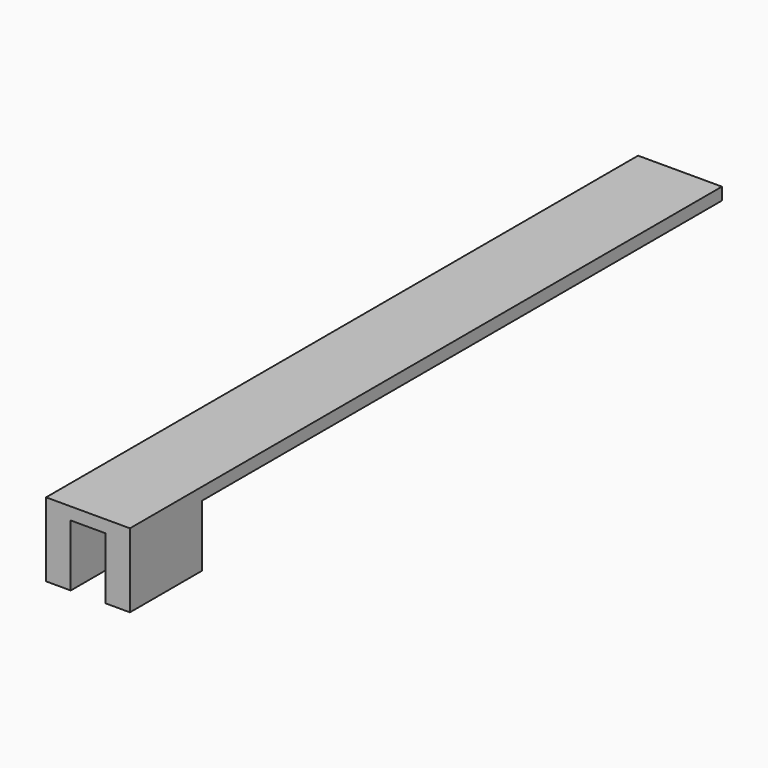
from build123d import *

# Parameters (mm, degrees)
F0_W     = 2
F0_H     = 7.3
F1_DEPTH = 5
F2_W     = 6.8
F2_H     = 60
F3_DEPTH = 1


with BuildPart() as f1:
    # F0 (on Top) → F1 (new body)
    with BuildSketch(Plane.XY):
        with Locations((-2.4, 3.65)):
            Rectangle(F0_W, F0_H)
    extrude(amount=F1_DEPTH)



with BuildPart() as f1b:
    # F0 (on Top) → F1, piece 2 (new body)
    with BuildSketch(Plane.XY):
        with Locations((2.4, 3.65)):
            Rectangle(F0_W, F0_H)
    extrude(amount=F1_DEPTH)


with BuildPart() as f1_1:
    add(f1.part)

    add(f1b.part)  # F3 merges F1b
    # F2 (on face) → F3 (join)
    with BuildSketch(Plane.XY.offset(5)):
        with Locations((0, 30)):
            Rectangle(F2_W, F2_H)
    extrude(amount=F3_DEPTH)


solid = f1_1.part
